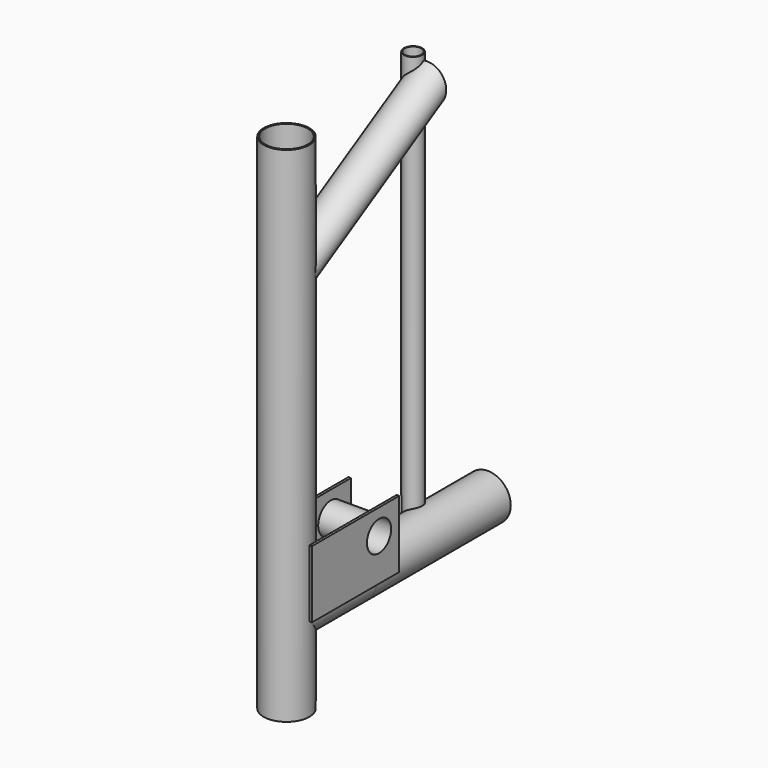
from build123d import *

# Parameters (mm, degrees)
F0_R        = 27.25
F0_R_2      = 25.5
F0_R_3      = 11
F0_R_4      = 10
F1_DEPTH    = 500
F1_FACE_R   = 27.25
F1_FACE_R_2 = 25.5
F2_DEPTH    = 100
F3_R        = 27.25
F3_R_2      = 25.5
F4_DEPTH    = 100
F4_FACE_R   = 27.25
F4_FACE_R_2 = 25.5
F5_DEPTH    = 200
F6_DEPTH    = 200
F9_W        = 130
F9_H        = 80
F10_DEPTH   = 3
F12_R       = 18.73
F12_R_2     = 18
F13_DEPTH   = 60.1
F14_DEPTH   = 88
F18_R       = 22.75


with BuildPart() as f1:
    # F0 (on Top) → F1 (new body)
    with BuildSketch(Plane.XY):
        with Locations((0, -100)):
            Circle(F0_R)
        with Locations((0, -100)):
            Circle(F0_R_2, mode=Mode.SUBTRACT)
        with Locations((-15, 107.25)):
            Circle(F0_R_3)
        with Locations((-15, 107.25)):
            Circle(F0_R_4, mode=Mode.SUBTRACT)
    extrude(amount=F1_DEPTH)



with BuildPart() as f2:
    # F1_face (on face) → F2 (new body)
    with BuildSketch(Plane(origin=(0, -100, 0), x_dir=(1, 0, 0), z_dir=(0, 0, -1))):
        Circle(F1_FACE_R)
        Circle(F1_FACE_R_2, mode=Mode.SUBTRACT)
    extrude(amount=F2_DEPTH)


with BuildPart() as f1_1:
    add(f1.part)

    add(f2.part)  # F4 merges F2
    # F3 (on Front) → F4 (join)
    with BuildSketch(Plane.XZ):
        Circle(F3_R)
        Circle(F3_R_2, mode=Mode.SUBTRACT)
    extrude(amount=F4_DEPTH)


with BuildPart() as f5:
    # F4_face (on face) → F5 (new body)
    with BuildSketch(Plane(origin=(0, 0, 0), x_dir=(1, 0, 0), z_dir=(0, 1, 0))):
        Circle(F4_FACE_R)
        Circle(F4_FACE_R_2, mode=Mode.SUBTRACT)
    extrude(amount=F5_DEPTH)


with BuildPart() as f6:
    # F3 (on Front) → F6 (new body)
    with BuildSketch(Plane.XZ):
        Circle(F3_R_2)
    extrude(amount=-F6_DEPTH)


with BuildPart() as f1_2:
    add(f1_1.part)

    # F7: cut F6
    add(f6.part, mode=Mode.SUBTRACT)


with BuildPart() as f10:
    # F9 (on offset) → F10 (new body)
    with BuildSketch(Plane.YZ.offset(27.25)):
        with Locations((-35, 40)):
            Rectangle(F9_W, F9_H)
    extrude(amount=F10_DEPTH)


with BuildPart() as f11_1:
    # F11: instance of F10
    add(f10.part.mirror(Plane.YZ))


with BuildPart() as f13:
    # F12 (on face) → F13 (new body)
    with BuildSketch(Plane.YZ.offset(30.25)):
        with Locations((0, 50)):
            Circle(F12_R)
        with Locations((0, 50)):
            Circle(F12_R_2, mode=Mode.SUBTRACT)
    extrude(amount=-F13_DEPTH)


with BuildPart() as f14:
    # F12 (on face) → F14 (new body, symmetric)
    with BuildSketch(Plane.YZ.offset(30.25)):
        with Locations((0, 50)):
            Circle(F12_R_2)
    extrude(amount=F14_DEPTH, both=True)


with BuildPart() as f10_1:
    add(f10.part)

    # F15: cut F14
    add(f14.part, mode=Mode.SUBTRACT)


with BuildPart() as f11_1_1:
    add(f11_1.part)

    # F15: cut F14
    add(f14.part, mode=Mode.SUBTRACT)


with BuildPart() as f13_1:
    add(f13.part)

    # F15: cut F14
    add(f14.part, mode=Mode.SUBTRACT)


with BuildPart() as f19:
    # F19: sweep along a path in F16
    with BuildLine(Plane.YZ) as f19_path:
        Line((-100, 350), (109.490453, 470.94937))
    # F18 (on offset) → F19 (sweep)
    with BuildSketch(Plane.XZ.offset(100)):
        with Locations((0, 350)):
            Circle(F18_R)
    sweep(path=f19_path.line)


solid = Compound([f5.part, f1_2.part, f10_1.part, f11_1_1.part, f13_1.part, f19.part])
